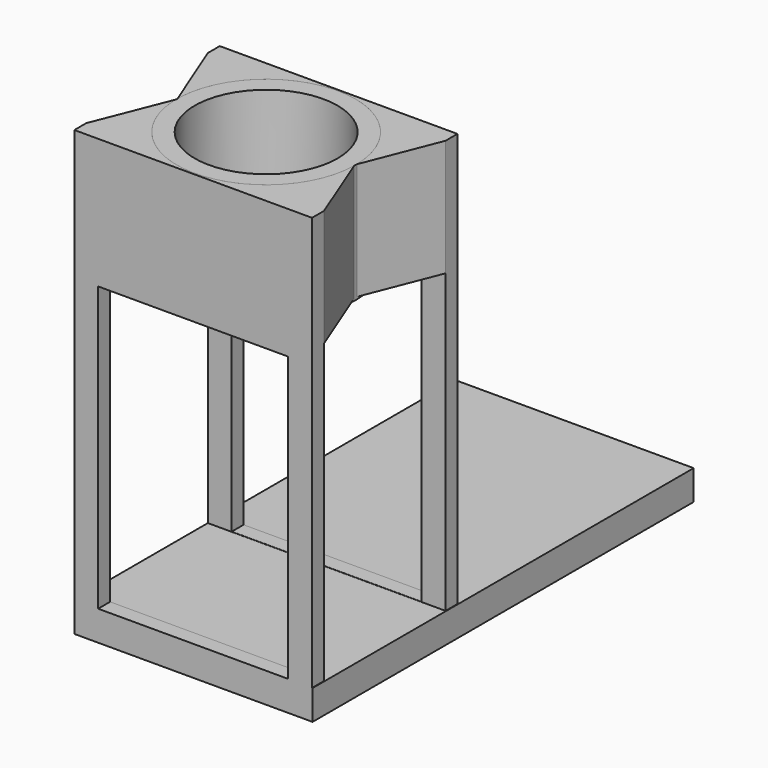
from build123d import *

# Parameters (mm, degrees)
F0_R      = 38.1
F0_R_2    = 30.48
F1_DEPTH  = 50.8
F3_W      = 101.6
F3_H      = 203.2
F4_DEPTH  = 12.7
F5_W      = 101.3802451253
F5_H      = 189.2143650602
F6_DEPTH  = 6.35
F8_DEPTH  = 49.784
F9_W      = 81.0602451253
F9_H      = 121.0168540975
F10_DEPTH = 25.4


with BuildPart() as f1:
    # F0 (on Top) → F1 (new body)
    with BuildSketch(Plane.XY):
        Circle(F0_R)
        Circle(F0_R_2, mode=Mode.SUBTRACT)
    extrude(amount=F1_DEPTH)



with BuildPart() as f4:
    # F3 (on offset) → F4 (new body)
    with BuildSketch(Plane.XY.offset(-138.43)):
        with Locations((0, 62.8368258476)):
            Rectangle(F3_W, F3_H)
    extrude(amount=F4_DEPTH)


with BuildPart() as f6:
    # F5 (on face) → F6 (new body)
    with BuildSketch(Plane.XZ.offset(38.7631741524)):
        with Locations((-0.1098774374, -43.8228174699)):
            Rectangle(F5_W, F5_H)
    extrude(amount=-F6_DEPTH)


with BuildPart() as f1_1:
    add(f1.part)

    add(f6.part)  # F8 merges F6
    # F7 (on face) → F8 (join)
    with BuildSketch(Plane.XY.offset(50.7843650602)):
        with BuildLine():
            Line((-37.9473480204, 0), (-50.8, -32.4131741524))
            Line((-50.8, -32.4131741524), (-19.7329005255, -32.4131741524))
            ThreePointArc((-19.7329005255, -32.4131741524), (-33.081811207, -18.5901852881), (-37.9473480204, 0))
        make_face()
        with BuildLine():
            Line((19.7329005255, -32.4131741524), (50.5802451253, -32.4131741524))
            Line((50.5802451253, -32.4131741524), (37.945801456, -0.3425983667))
            ThreePointArc((37.945801456, -0.3425983667), (32.997554809, -18.7393329232), (19.7329005255, -32.4131741524))
        make_face()
    extrude(amount=-F8_DEPTH)

    # F9 (on face) → F10 (cut)
    with BuildSketch(Plane.XZ.offset(38.7631741524)):
        with Locations((-0.1098774374, -65.1476242347)):
            Rectangle(F9_W, F9_H)
    extrude(amount=-F10_DEPTH, mode=Mode.SUBTRACT)



with BuildPart() as f1_2:
    add(f1_1.part)

    add(f4.part)  # F11 merges F4
    # F11: F1 across plane
    add(f1_1.part.mirror(Plane.XZ))


solid = f1_2.part
